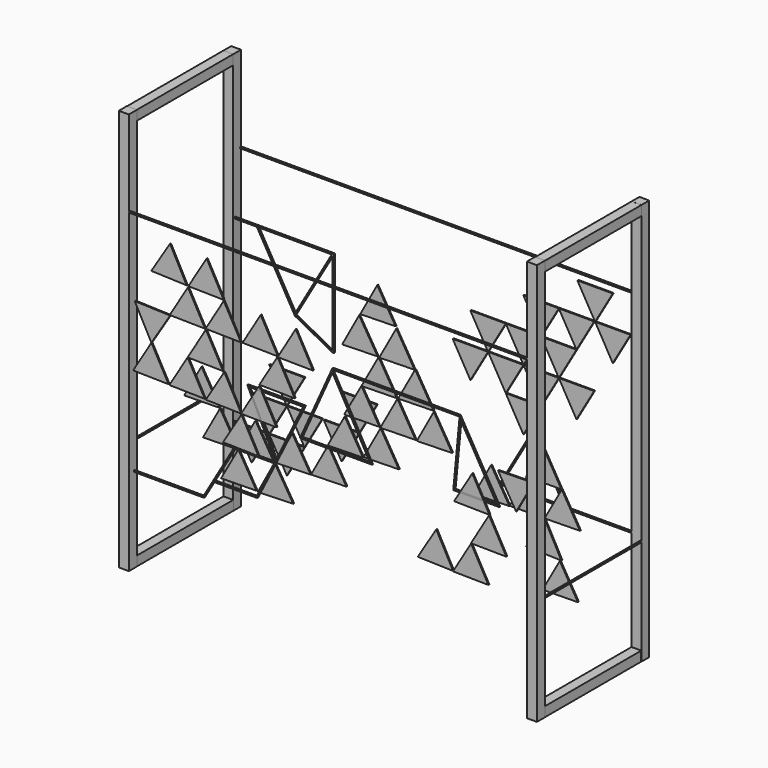
from build123d import *

# Parameters (mm, degrees)
F1_DEPTH      = 3
F3_W          = 25
F3_H          = 25
F4_DEPTH      = 800
F4_DEPTH_BACK = 200
F5_W          = 24.1806805134
F5_H          = 24.1808
F6_DEPTH      = 300
F5_H_2        = 23.8844635876
F8_DEPTH      = 1000
F7_W          = 24.3490040302
F7_H          = 24.3332
F11_DEPTH     = 3
F12_W         = 24.3490040302
F12_H         = 24.1808
F13_DEPTH     = 299.8482142698
F16_DEPTH     = 3
F17_W         = 989.9666857719
F17_H         = 3
F18_DEPTH     = 3
F19_W         = 989.9666857719
F19_H         = 3
F20_DEPTH     = 3
F21_W         = 298.6975977647
F21_H         = 3
F22_DEPTH     = 3
F23_W         = 298.6975977647
F23_H         = 3
F24_DEPTH     = 3
F26_DEPTH     = 3
F27_DEPTH     = 3
F28_W         = 162.3985469341
F28_H         = 3
F29_DEPTH     = 3


with BuildPart() as f1:
    # F0 (on Front) → F1 (new body)
    with BuildSketch(Plane.XZ):
        Polygon((-362.3552432434, 363.4057425673), (-403.6595232851, 441.096645833), (-450.2896791352, 366.480638399), align=None)
    extrude(amount=F1_DEPTH)


with BuildPart() as f1b:
    # F0 (on Front) → F1, piece 2 (new body)
    with BuildSketch(Plane.XZ):
        Polygon((-270.0465281223, 361.4154681182), (-312.6688650498, 438.3911551553), (-358.0205970339, 362.9912850888), align=None)
    extrude(amount=F1_DEPTH)


with BuildPart() as f1c:
    # F0 (on Front) → F1, piece 3 (new body)
    with BuildSketch(Plane.XZ):
        Polygon((-316.3844035094, 283.2761841263), (-359.1390236051, 360.1784757728), (-404.3610517323, 284.7007428175), align=None)
    extrude(amount=F1_DEPTH)


with BuildPart() as f1d:
    # F0 (on Front) → F1, piece 4 (new body)
    with BuildSketch(Plane.XZ):
        Polygon((-491.355965374, 286.8537522587), (-449.9725013031, 209.2049988785), (-403.4184403392, 283.8685067506), align=None)
    extrude(amount=F1_DEPTH)


with BuildPart() as f1e:
    # F0 (on Front) → F1, piece 5 (new body)
    with BuildSketch(Plane.XZ):
        Polygon((-407.389440583, 132.2075772353), (-449.9725013031, 209.2049988785), (-495.362694112, 133.8282757024), align=None)
    extrude(amount=F1_DEPTH)


with BuildPart() as f1f:
    # F0 (on Front) → F1, piece 6 (new body)
    with BuildSketch(Plane.XZ):
        Polygon((-317.3253778207, 129.5237566868), (-359.9872442624, 206.4775425047), (-405.3002444772, 131.0543894844), align=None)
    extrude(amount=F1_DEPTH)


with BuildPart() as f1g:
    # F0 (on Front) → F1, piece 7 (new body)
    with BuildSketch(Plane.XZ):
        Polygon((-271.7999447081, 205.0963525209), (-314.6151330638, 281.9649393823), (-359.777687861, 206.4516051678), align=None)
    extrude(amount=F1_DEPTH)


with BuildPart() as f1h:
    # F0 (on Front) → F1, piece 8 (new body)
    with BuildSketch(Plane.XZ):
        Polygon((-227.2336829236, 282.4049956406), (-270.0558651756, 359.2696865407), (-315.2115490232, 283.7522434149), align=None)
    extrude(amount=F1_DEPTH)


with BuildPart() as f1i:
    # F0 (on Front) → F1, piece 9 (new body)
    with BuildSketch(Plane.XZ):
        Polygon((-135.3798921516, 281.4915873517), (-178.1950916603, 358.3601680009), (-223.3576355011, 282.8468272337), align=None)
    extrude(amount=F1_DEPTH)


with BuildPart() as f1j:
    # F0 (on Front) → F1, piece 10 (new body)
    with BuildSketch(Plane.XZ):
        Polygon((-47.99114948, 278.8973061495), (-91.042377724, 355.6339450301), (-135.9726422736, 279.9821682664), align=None)
    extrude(amount=F1_DEPTH)


with BuildPart() as f1k:
    # F0 (on Front) → F1, piece 11 (new body)
    with BuildSketch(Plane.XZ):
        Polygon((-93.5101370618, 203.3348395702), (-136.4265002426, 280.1469855586), (-181.4895883973, 204.5742518118), align=None)
    extrude(amount=F1_DEPTH)


with BuildPart() as f1l:
    # F0 (on Front) → F1, piece 12 (new body)
    with BuildSketch(Plane.XZ):
        Polygon((-181.9205771528, 201.9331272983), (-226.5987952605, 126.93624159), (-226.4531542636, 126.6717646528), (-226.7527409708, 126.6778282215), (-226.9528050627, 126.3420005078), (-138.9728550065, 125.138510544), align=None)
    extrude(amount=F1_DEPTH)


with BuildPart() as f1m:
    # F0 (on Front) → F1, piece 13 (new body)
    with BuildSketch(Plane.XZ):
        Polygon((-226.5987952605, 126.93624159), (-268.896281145, 203.7464101631), (-314.4233187039, 128.4522613127), (-226.7527409708, 126.6778282215), align=None)
    extrude(amount=F1_DEPTH)


with BuildPart() as f1n:
    # F0 (on Front) → F1, piece 14 (new body)
    with BuildSketch(Plane.XZ):
        Polygon((-183.6945691931, 47.5707003518), (-226.1776688478, 124.6233203185), (-271.6656453398, 49.3055668027), align=None)
    extrude(amount=F1_DEPTH)


with BuildPart() as f1o:
    # F0 (on Front) → F1, piece 15 (new body)
    with BuildSketch(Plane.XZ):
        Polygon((390.9105563156, 105.751747494), (348.0953568069, 182.6203281433), (302.9328129661, 107.106987376), align=None)
    extrude(amount=F1_DEPTH)


with BuildPart() as f1p:
    # F0 (on Front) → F1, piece 16 (new body)
    with BuildSketch(Plane.XZ):
        Polygon((500, 211.1732810736), (412.0237395037, 209.7249754799), (457.2661391884, 134.259451757), align=None)
    extrude(amount=F1_DEPTH)


with BuildPart() as f1q:
    # F0 (on Front) → F1, piece 17 (new body)
    with BuildSketch(Plane.XZ):
        Polygon((432.8523042106, 27.7161162585), (389.7230618164, 104.408935026), (344.869753673, 28.711506083), align=None)
    extrude(amount=F1_DEPTH)


with BuildPart() as f1r:
    # F0 (on Front) → F1, piece 18 (new body)
    with BuildSketch(Plane.XZ):
        Polygon((388.0849468385, -48.6122861447), (345.1023035262, 28.1627903703), (300.1044585429, -47.4488089175), align=None)
    extrude(amount=F1_DEPTH)


with BuildPart() as f1s:
    # F0 (on Front) → F1, piece 19 (new body)
    with BuildSketch(Plane.XZ):
        Polygon((300.3869921025, -46.5269102146), (258.5449205159, 30.8756804742), (212.4333464539, -44.0619118111), align=None)
    extrude(amount=F1_DEPTH)


with BuildPart() as f4:
    # F3 (on offset) → F4 (new body, two sides)
    with BuildSketch(Plane.XY.offset(500)) as f4_sk:
        with Locations((-507.5, -4.3170339101)):
            Rectangle(F3_W, F3_H)
    extrude(amount=-F4_DEPTH)
    extrude(f4_sk.sketch, amount=F4_DEPTH_BACK)


with BuildPart() as f4b:
    # F3 (on offset) → F4, piece 2 (new body, two sides)
    with BuildSketch(Plane.XY.offset(500)) as f4_2_sk:
        with Locations((507.5, -4.3170339101)):
            Rectangle(F3_W, F3_H)
    extrude(amount=-F4_DEPTH)
    extrude(f4_2_sk.sketch, amount=F4_DEPTH_BACK)

    # F17 (on face) → F18 (join)
    with BuildSketch(Plane.XZ.offset(16.8170339101)):
        with Locations((0.016657114, 486.6224930286)):
            Rectangle(F17_W, F17_H)
    extrude(amount=-F18_DEPTH)


with BuildPart() as f6:
    # F5 (on face) → F6 (new body)
    with BuildSketch(Plane(origin=(0, 8.1829660899, 0), x_dir=(-1, 0, 0), z_dir=(0, 1, 0))):
        with Locations((-507.3666423559, -288.2059364124)):
            Rectangle(F5_W, F5_H)
    extrude(amount=F6_DEPTH)


with BuildPart() as f6b:
    # F5 (on face) → F6, piece 2 (new body)
    with BuildSketch(Plane(origin=(0, 8.1829660899, 0), x_dir=(-1, 0, 0), z_dir=(0, 1, 0))):
        with Locations((507.3666423559, -288.0577682062)):
            Rectangle(F5_W, F5_H_2)
    extrude(amount=F6_DEPTH)


with BuildPart() as f8:
    # F7 (on face) → F8 (new body)
    with BuildSketch(Plane(origin=(0, 0, -300.2963364124), x_dir=(1, 0, 0), z_dir=(0, 0, -1))):
        Polygon((519.8587179184, -332.3643803596), (519.8587179184, -308.0311803596), (519.4569826126, -308.0311803596), (519.4569826126, -308.1829660899), (495.5097138882, -308.1829660899), (495.5097138882, -332.3643803596), align=None)
    extrude(amount=-F8_DEPTH)

    # F21 (on face) → F22 (join)
    with BuildSketch(Plane.YZ.offset(519.8587179184)):
        with Locations((158.6823814773, -37.6262173653)):
            Rectangle(F21_W, F21_H)
    extrude(amount=-F22_DEPTH)


with BuildPart() as f8b:
    # F7 (on face) → F8, piece 2 (new body)
    with BuildSketch(Plane(origin=(0, 0, -300.2963364124), x_dir=(1, 0, 0), z_dir=(0, 0, -1))):
        with Locations((-507.6842159033, -320.1977803596)):
            Rectangle(F7_W, F7_H)
    extrude(amount=-F8_DEPTH)

    # F23 (on face) → F24 (join)
    with BuildSketch(Plane(origin=(-520, 0, 0), x_dir=(0, -1, 0), z_dir=(-1, 0, 0))):
        with Locations((-158.6823814773, -37.6262173653)):
            Rectangle(F23_W, F23_H)
    extrude(amount=-F24_DEPTH)


with BuildPart() as f11:
    # F9 (on face) → F11 (new body)
    with BuildSketch(Plane.XZ.offset(-308.1829660899)):
        Polygon((94.3891993324, 177.8320623875), (138.3832898447, 254.0320623875), (50.3951088202, 254.0320623875), align=None)
    extrude(amount=-F11_DEPTH)

    # F9 (on face) → F11, piece 8 (join)
    with BuildSketch(Plane.XZ.offset(-308.1829660899)):
        Polygon((182.3773803569, 330.2320623875), (94.3891993324, 330.2320623875), (138.3832898447, 254.0320623875), align=None)
    extrude(amount=-F11_DEPTH)



with BuildPart() as f11b:
    # F9 (on face) → F11, piece 2 (new body)
    with BuildSketch(Plane.XZ.offset(-308.1829660899)):
        Polygon((402.3478329182, 254.0320623875), (314.3596518937, 254.0320623875), (358.3537424059, 177.8320623875), align=None)
    extrude(amount=-F11_DEPTH)


with BuildPart() as f11c:
    # F9 (on face) → F11, piece 3 (new body)
    with BuildSketch(Plane.XZ.offset(-308.1829660899)):
        Polygon((360.607036397, 482.6320623875), (404.6011269093, 406.4320623875), (448.5952174215, 482.6320623875), align=None)
    extrude(amount=-F11_DEPTH)

    # F9 (on face) → F11, piece 19 (join)
    with BuildSketch(Plane.XZ.offset(-308.1829660899)):
        Polygon((492.5893079338, 406.4320623875), (404.6011269093, 406.4320623875), (448.5952174215, 330.2320623875), align=None)
        Polygon((492.5893079338, 406.4320623875), (404.6011269093, 406.4320623875), (448.5952174215, 330.2320623875), align=None)
    extrude(amount=-F11_DEPTH)


with BuildPart() as f11d:
    # F9 (on face) → F11, piece 4 (new body)
    with BuildSketch(Plane.XZ.offset(-308.1829660899)):
        Polygon((-406.1038065854, -103.3334359527), (-494.0919876099, -103.3334359527), (-450.0978970976, -179.5334359527), align=None)
    extrude(amount=-F11_DEPTH)



with BuildPart() as f11e:
    # F9 (on face) → F11, piece 5 (new body)
    with BuildSketch(Plane.XZ.offset(-308.1829660899)):
        Polygon((-406.1038065854, 49.0665640473), (-362.1097160731, -27.1334359527), (-318.1156255609, 49.0665640473), align=None)
    extrude(amount=-F11_DEPTH)


with BuildPart() as f11f:
    # F9 (on face) → F11, piece 6 (new body)
    with BuildSketch(Plane.XZ.offset(-308.1829660899)):
        Polygon((-182.1624040604, -28.1305238605), (-270.1505850849, -28.1305238605), (-226.1564945726, -104.3305238605), align=None)
    extrude(amount=-F11_DEPTH)

    # F9 (on face) → F11, piece 7 (join)
    with BuildSketch(Plane.XZ.offset(-308.1829660899)):
        Polygon((-226.1564945726, 48.0694761395), (-182.1624040604, -28.1305238605), (-138.1683135481, 48.0694761395), align=None)
    extrude(amount=-F11_DEPTH)


with BuildPart() as f11g:
    # F9 (on face) → F11, piece 9 (new body)
    with BuildSketch(Plane.XZ.offset(-308.1829660899)):
        Polygon((270.3655613814, 177.8320623875), (182.3773803569, 177.8320623875), (226.3714708692, 101.6320623875), align=None)
    extrude(amount=-F11_DEPTH)


with BuildPart() as f11h:
    # F9 (on face) → F11, piece 10 (new body)
    with BuildSketch(Plane.XZ.offset(-308.1829660899)):
        Polygon((226.3714708692, 406.4320623875), (270.3655613814, 330.2320623875), (314.3596518937, 406.4320623875), align=None)
    extrude(amount=-F11_DEPTH)

    # F9 (on face) → F11, piece 11 (join)
    with BuildSketch(Plane.XZ.offset(-308.1829660899)):
        Polygon((314.3596518937, 406.4320623875), (358.3537424059, 330.2320623875), (402.3478329182, 406.4320623875), align=None)
    extrude(amount=-F11_DEPTH)


with BuildPart() as f11d_1:
    add(f11d.part)

    add(f11e.part)  # F11#12 merges F11e
    # F9 (on face) → F11, piece 12 (join)
    with BuildSketch(Plane.XZ.offset(-308.1829660899)):
        Polygon((-450.0978970976, -27.1334359527), (-406.1038065854, -103.3334359527), (-362.1097160731, -27.1334359527), align=None)
    extrude(amount=-F11_DEPTH)

    # F9 (on face) → F11, piece 13 (join)
    with BuildSketch(Plane.XZ.offset(-308.1829660899)):
        Polygon((-318.1156255609, -103.3334359527), (-406.1038065854, -103.3334359527), (-362.1097160731, -179.5334359527), align=None)
    extrude(amount=-F11_DEPTH)

    # F9 (on face) → F11, piece 14 (join)
    with BuildSketch(Plane.XZ.offset(-308.1829660899)):
        Polygon((-274.1215350486, -27.1334359527), (-362.1097160731, -27.1334359527), (-318.1156255609, -103.3334359527), align=None)
    extrude(amount=-F11_DEPTH)


with BuildPart() as f11_1:
    add(f11.part)

    add(f11h.part)  # F11#15 merges F11h
    # F9 (on face) → F11, piece 15 (join)
    with BuildSketch(Plane.XZ.offset(-308.1829660899)):
        Polygon((270.3655613814, 330.2320623875), (182.3773803569, 330.2320623875), (226.3714708692, 254.0320623875), align=None)
    extrude(amount=-F11_DEPTH)


    add(f11g.part)  # F11#16 merges F11g
    # F9 (on face) → F11, piece 16 (join)
    with BuildSketch(Plane.XZ.offset(-308.1829660899)):
        Polygon((226.3714708692, 254.0320623875), (138.3832898447, 254.0320623875), (182.3773803569, 177.8320623875), align=None)
    extrude(amount=-F11_DEPTH)


    add(f11b.part)  # F11#17 merges F11b
    # F9 (on face) → F11, piece 17 (join)
    with BuildSketch(Plane.XZ.offset(-308.1829660899)):
        Polygon((314.3596518937, 254.0320623875), (226.3714708692, 254.0320623875), (270.3655613814, 177.8320623875), align=None)
    extrude(amount=-F11_DEPTH)

    # F9 (on face) → F11, piece 18 (join)
    with BuildSketch(Plane.XZ.offset(-308.1829660899)):
        Polygon((358.3537424059, 330.2320623875), (270.3655613814, 330.2320623875), (314.3596518937, 254.0320623875), align=None)
    extrude(amount=-F11_DEPTH)


with BuildPart() as f13:
    # F12 (on face) → F13 (new body, through all)
    with BuildSketch(Plane.XZ.offset(-308.0311803596)):
        with Locations((-507.6842159033, 687.6132635876)):
            Rectangle(F12_W, F12_H)
    extrude(amount=F13_DEPTH)


with BuildPart() as f13b:
    # F12 (on face) → F13, piece 2 (new body, through all)
    with BuildSketch(Plane.XZ.offset(-308.0311803596)):
        with Locations((507.6842159033, 687.6132635876)):
            Rectangle(F12_W, F12_H)
    extrude(amount=F13_DEPTH)


with BuildPart() as f16:
    # F15 (on offset) → F16 (new body)
    with BuildSketch(Plane.XZ.offset(-152.4)):
        Polygon((-402.2347599106, 20.1417538259), (-447.3883545006, 95.6604461848), (-490.212663249, 18.7969400182), align=None)
    extrude(amount=F16_DEPTH)


with BuildPart() as f16b:
    # F15 (on offset) → F16, piece 2 (new body)
    with BuildSketch(Plane.XZ.offset(-152.4)):
        Polygon((-355.7828997356, -56.0530304771), (-401.2921452522, 19.1687420011), (-443.7157876013, -57.9166299565), (-355.8176396055, -56.1153625012), align=None)
    extrude(amount=F16_DEPTH)


with BuildPart() as f16c:
    # F15 (on offset) → F16, piece 3 (new body)
    with BuildSketch(Plane.XZ.offset(-152.4)):
        Polygon((-313.2753670216, 21.1921166629), (-355.695061998, -55.8954275846), (-267.7254428761, -54.0881889313), align=None)
    extrude(amount=F16_DEPTH)


with BuildPart() as f16d:
    # F15 (on offset) → F16, piece 4 (new body)
    with BuildSketch(Plane.XZ.offset(-152.4)):
        Polygon((-175.7812075288, -52.5944828733), (-221.5064927208, 22.5794374323), (-263.7463748115, -54.6067812921), align=None)
    extrude(amount=F16_DEPTH)


with BuildPart() as f16e:
    # F15 (on offset) → F16, piece 5 (new body)
    with BuildSketch(Plane.XZ.offset(-152.4)):
        Polygon((-86.8710615445, -49.865442635), (-132.5549815957, 25.3336228429), (-174.8373226149, -51.8293452048), align=None)
    extrude(amount=F16_DEPTH)


with BuildPart() as f16f:
    # F15 (on offset) → F16, piece 6 (new body)
    with BuildSketch(Plane.XZ.offset(-152.4)):
        Polygon((-219.3114044833, -130.4135112494), (-265.6885295206, -55.639971322), (-307.25575211, -133.1905097224), align=None)
    extrude(amount=F16_DEPTH)


with BuildPart() as f16g:
    # F15 (on offset) → F16, piece 7 (new body)
    with BuildSketch(Plane.XZ.offset(-152.4)):
        Polygon((-355.695061998, -55.8954275846), (-355.7828997356, -56.0530304771), (-355.7460760513, -56.1138959731), (-355.8176396055, -56.1153625012), (-398.530416809, -132.7527784251), (-310.552321108, -131.4206084513), align=None)
    extrude(amount=F16_DEPTH)


with BuildPart() as f16h:
    # F15 (on offset) → F16, piece 8 (new body)
    with BuildSketch(Plane.XZ.offset(-152.4)):
        Polygon((-45.5998371698, 27.2125915278), (-91.1292702501, 102.5052918605), (-133.5699449175, 25.4292960267), align=None)
    extrude(amount=F16_DEPTH)


with BuildPart() as f16i:
    # F15 (on offset) → F16, piece 9 (new body)
    with BuildSketch(Plane.XZ.offset(-152.4)):
        Polygon((43.5446351767, 30.49925901), (-2.0395069553, 105.7588496685), (-44.424153278, 28.6520292432), align=None)
    extrude(amount=F16_DEPTH)


with BuildPart() as f16j:
    # F15 (on offset) → F16, piece 10 (new body)
    with BuildSketch(Plane.XZ.offset(-152.4)):
        Polygon((-49.3750471282, 182.882569875), (-49.5260439875, 183.1357696394), (-92.4386104253, 106.3215024638), (-4.4592204593, 107.5652633749), (-49.3355305886, 182.8163063873), (-49.4124174061, 182.8147897516), align=None)
    extrude(amount=F16_DEPTH)


with BuildPart() as f16k:
    # F15 (on offset) → F16, piece 11 (new body)
    with BuildSketch(Plane.XZ.offset(-152.4)):
        Polygon((85.3963666353, 108.393956148), (39.8864815894, 183.6984736957), (-2.5742011038, 106.6334983488), align=None)
    extrude(amount=F16_DEPTH)


with BuildPart() as f16l:
    # F15 (on offset) → F16, piece 12 (new body)
    with BuildSketch(Plane.XZ.offset(-152.4)):
        Polygon((176.1421211822, 109.3296583422), (130.4004619054, 184.4936165044), (88.1773943264, 107.2981984783), align=None)
    extrude(amount=F16_DEPTH)


with BuildPart() as f16m:
    # F15 (on offset) → F16, piece 13 (new body)
    with BuildSketch(Plane.XZ.offset(-152.4)):
        Polygon((129.7196069718, 186.8137194891), (84.1002965273, 262.0519977427), (41.7516914449, 184.9253768678), align=None)
    extrude(amount=F16_DEPTH)


with BuildPart() as f16n:
    # F15 (on offset) → F16, piece 14 (new body)
    with BuildSketch(Plane.XZ.offset(-152.4)):
        Polygon((-6.9296789561, 259.867608868), (-49.3750471282, 182.882569875), (-49.3355305886, 182.8163063873), (38.558650607, 184.5500685898), align=None)
    extrude(amount=F16_DEPTH)


with BuildPart() as f16o:
    # F15 (on offset) → F16, piece 15 (new body)
    with BuildSketch(Plane.XZ.offset(-152.4)):
        Polygon((82.66189532, 261.2176339629), (37.1206275197, 336.50317658), (-5.3079310242, 259.4205104358), align=None)
    extrude(amount=F16_DEPTH)


with BuildPart() as f16p:
    # F15 (on offset) → F16, piece 16 (new body)
    with BuildSketch(Plane.XZ.offset(-152.4)):
        Polygon((-9.4302284048, 260.5149989257), (-55.372348515, 335.5565980543), (-97.3892196459, 258.2487553708), align=None)
    extrude(amount=F16_DEPTH)


with BuildPart() as f16q:
    # F15 (on offset) → F16, piece 17 (new body)
    with BuildSketch(Plane.XZ.offset(-152.4)):
        Polygon((35.3912791944, 341.044337594), (-10.1980018631, 416.300815406), (-52.5773829189, 339.191100964), align=None)
    extrude(amount=F16_DEPTH)


with BuildPart() as f16r:
    # F15 (on offset) → F16, piece 18 (new body)
    with BuildSketch(Plane.XZ.offset(-152.4)):
        Polygon((318.607088718, 39.3661743339), (272.7958495382, 114.4877449033), (230.6442806428, 37.25326271), align=None)
    extrude(amount=F16_DEPTH)


with BuildPart() as f16s:
    # F15 (on offset) → F16, piece 19 (new body)
    with BuildSketch(Plane.XZ.offset(-152.4)):
        Polygon((447.83726857, 118.3018605179), (403.2852385653, 194.1769988865), (359.8514562247, 117.6562399279), align=None)
    extrude(amount=F16_DEPTH)


with BuildPart() as f16t:
    # F15 (on offset) → F16, piece 20 (new body)
    with BuildSketch(Plane.XZ.offset(-152.4)):
        Polygon((493.9645739779, 42.3798041996), (448.7668511243, 117.8720941956), (406.6873978651, 42.2415691365), (406.932978118, 41.8340839879), (406.4556918334, 41.8251176981), (405.9874716246, 40.9835730132), align=None)
    extrude(amount=F16_DEPTH)


with BuildPart() as f16u:
    # F15 (on offset) → F16, piece 21 (new body)
    with BuildSketch(Plane.XZ.offset(-152.4)):
        Polygon((406.4556918334, 41.8251176981), (406.6873978651, 42.2415691365), (361.5154095757, 117.1943153284), (318.9603190708, 40.1814315224), align=None)
    extrude(amount=F16_DEPTH)


with BuildPart() as f16v:
    # F15 (on offset) → F16, piece 22 (new body)
    with BuildSketch(Plane.XZ.offset(-152.4)):
        Polygon((447.8774397652, -37.8142718253), (405.9565557877, 39.5456628085), (359.9213291485, -35.438854982), align=None)
    extrude(amount=F16_DEPTH)


with BuildPart() as f16w:
    # F15 (on offset) → F16, piece 23 (new body)
    with BuildSketch(Plane.XZ.offset(-152.4)):
        Polygon((488.8793480906, -115.6403117186), (443.8577207698, -40.0428708003), (400.8992301339, -116.8314642389), align=None)
    extrude(amount=F16_DEPTH)


with BuildPart() as f20:
    # F19 (on face) → F20 (new body)
    with BuildSketch(Plane(origin=(0, 332.3643803596, 0), x_dir=(-1, 0, 0), z_dir=(0, 1, 0))):
        with Locations((-0.016657114, 486.6224930286)):
            Rectangle(F19_W, F19_H)
    extrude(amount=-F20_DEPTH)


with BuildPart() as f26:
    # F25 (on Front) → F26 (new body)
    with BuildSketch(Plane.XZ):
        Polygon((-320.8590947148, -84.795637548), (-493.8441812992, -84.795637548), (-493.7907457352, -87.795637548), (-319.1352018928, -87.795637548), (-294.3189250897, -45.2151186764), (-186.8152286952, -45.2151186764), (-140.0500833988, 47.4094450474), (-243.8088846329, 47.4094450474), align=None)
        Polygon((-144.9254382824, 44.4094450474), (-188.6612481573, -42.2151186764), (-292.5705004021, -42.2151186764), (-242.0849918108, 44.4094450474), align=None, mode=Mode.SUBTRACT)
        Polygon((-320.8590947148, -84.795637548), (-493.8441812992, -84.795637548), (-493.7907457352, -87.795637548), (-319.1352018928, -87.795637548), (-294.3189250897, -45.2151186764), (-186.8152286952, -45.2151186764), (-140.0500833988, 47.4094450474), (-243.8088846329, 47.4094450474), align=None)
        Polygon((-144.9254382824, 44.4094450474), (-188.6612481573, -42.2151186764), (-292.5705004021, -42.2151186764), (-242.0849918108, 44.4094450474), align=None, mode=Mode.SUBTRACT)
    extrude(amount=F26_DEPTH)


with BuildPart() as f27:
    # F25 (on Front) → F27 (new body)
    with BuildSketch(Plane.XZ):
        Polygon((-211.528301239, 194.5878565311), (-140.0500833988, 47.4094450474), (-67.8727489552, 194.5878565311), align=None)
        Polygon((-140.0369626514, 54.2495820862), (-206.7362495889, 191.5878565311), (-72.6853010416, 191.5878565311), align=None, mode=Mode.SUBTRACT)
    extrude(amount=F27_DEPTH)


with BuildPart() as f27b:
    # F25 (on Front) → F27, piece 2 (new body)
    with BuildSketch(Plane.XZ):
        Polygon((-320.8590947148, -84.795637548), (-493.8441812992, -84.795637548), (-493.7907457352, -87.795637548), (-319.1352018928, -87.795637548), (-294.3189250897, -45.2151186764), (-186.8152286952, -45.2151186764), (-140.0500833988, 47.4094450474), (-243.8088846329, 47.4094450474), align=None)
        Polygon((-144.9254382824, 44.4094450474), (-188.6612481573, -42.2151186764), (-292.5705004021, -42.2151186764), (-242.0849918108, 44.4094450474), align=None, mode=Mode.SUBTRACT)
    extrude(amount=F27_DEPTH)


with BuildPart() as f27c:
    # F25 (on Front) → F27, piece 3 (new body)
    with BuildSketch(Plane.XZ):
        Polygon((316.5082979199, 296.5409457684), (300.8568286896, 130.6044608355), (415.2603216192, 130.6044608355), (316.7912640663, 299.5409457684), align=None)
        Polygon((304.1531102592, 133.6044608355), (318.9012282672, 289.9636387252), (410.0392727972, 133.6044608355), align=None, mode=Mode.SUBTRACT)
        Polygon((0, 296.5409457684), (316.5082979199, 296.5409457684), (316.7912640663, 299.5409457684), (0, 299.5409457684), align=None)
        Polygon((98.7239650179, 120.5301015735), (0, 296.5409457684), (0, 299.5409457684), (-80.483622849, 120.5301015735), align=None)
        Polygon((93.6015864097, 123.5301015735), (-75.8455500677, 123.5301015735), (-0.4533316634, 291.2166964922), align=None, mode=Mode.SUBTRACT)
    extrude(amount=F27_DEPTH)


with BuildPart() as f29:
    # F28 (on face) → F29 (new body)
    with BuildSketch(Plane.XZ.offset(-308.1829660899)):
        with Locations((414.3104404211, -25.0306378454)):
            Rectangle(F28_W, F28_H)
    extrude(amount=-F29_DEPTH)


with BuildPart() as f29b:
    # F28 (on face) → F29, piece 2 (new body)
    with BuildSketch(Plane.XZ.offset(-308.1829660899)):
        Polygon((333.111166954, -26.5306378454), (249.6999534362, 117.9418218885), (166.2887399184, -26.5306378454), align=None)
        Polygon((327.9150145313, -23.5306378454), (171.4848923411, -23.5306378454), (249.6999534362, 111.9418218885), align=None, mode=Mode.SUBTRACT)
    extrude(amount=-F29_DEPTH)


with BuildPart() as f29c:
    # F28 (on face) → F29, piece 3 (new body)
    with BuildSketch(Plane.XZ.offset(-308.1829660899)):
        Polygon((-245.1053835245, 343.8333156997), (-438.4533169734, 343.8333156997), (-492.6872849464, 343.8333156997), (-492.6872849464, 340.8333156997), (-436.7212661659, 340.8333156997), (-341.779350249, 176.3890935637), (-248.1053835245, 126.5844255686), (-245.1053835245, 126.5844255686), (-245.1053835245, 340.8333156997), align=None)
        Polygon((-340.2784347703, 178.9887554307), (-248.1053835245, 338.637163277), (-248.1053835245, 129.9820956733), align=None, mode=Mode.SUBTRACT)
        Polygon((-433.2571645507, 340.8333156997), (-250.3015359472, 340.8333156997), (-341.779350249, 182.3890935637), align=None, mode=Mode.SUBTRACT)
    extrude(amount=-F29_DEPTH)


solid = Compound([f1.part, f1b.part, f1c.part, f1d.part, f1e.part, f1f.part, f1g.part, f1h.part, f1i.part, f1j.part, f1k.part, f1l.part, f1m.part, f1n.part, f1o.part, f1p.part, f1q.part, f1r.part, f1s.part, f4.part, f4b.part, f6.part, f6b.part, f8.part, f8b.part, f11c.part, f11f.part, f11d_1.part, f11_1.part, f13.part, f13b.part, f16.part, f16b.part, f16c.part, f16d.part, f16e.part, f16f.part, f16g.part, f16h.part, f16i.part, f16j.part, f16k.part, f16l.part, f16m.part, f16n.part, f16o.part, f16p.part, f16q.part, f16r.part, f16s.part, f16t.part, f16u.part, f16v.part, f16w.part, f20.part, f26.part, f27.part, f27b.part, f27c.part, f29.part, f29b.part, f29c.part])
